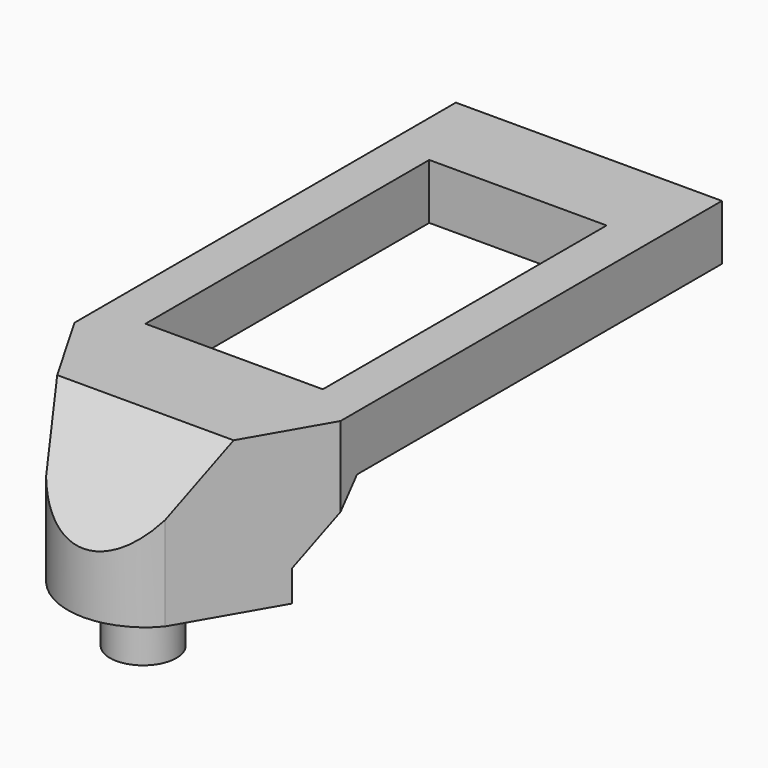
from build123d import *

# Parameters (mm, degrees)
F0_W     = 30.48
F0_H     = 54.61
F0_W_2   = 20.32
F0_H_2   = 40.64
F2_DEPTH = 17.526
F4_START = -25.4
F4_DEPTH = 40.641
F5_R     = 3.81
F6_DEPTH = 6.35


with BuildPart() as f2:
    # F0 (on Top) → F2 (new body)
    with BuildSketch(Plane.XY):
        with Locations((0, 13.335)):
            Rectangle(F0_W, F0_H)
        with Locations((0, 10.16)):
            Rectangle(F0_W_2, F0_H_2, mode=Mode.SUBTRACT)
        with BuildLine():
            Line((15.24, -13.97), (-15.24, -13.97))
            Line((-15.24, -13.97), (-6.8038069676, -28.5819149546))
            ThreePointArc((-6.8038069676, -28.5819149546), (0, -31.75), (6.8038069676, -28.5819149546))
            Line((6.8038069676, -28.5819149546), (15.24, -13.97))
        make_face()
    extrude(amount=-F2_DEPTH)

    # F3 (on Right) → F4 (intersect)
    with BuildSketch(Plane.YZ.offset(F4_START)):
        Polygon((40.7838374376, 0), (0, 0), (-22.86, 0), (-31.9106747376, -10.7861741339), (-31.9106747376, -17.527366057), (-18.003549273, -17.527366057), (-18.003549273, -13.97), (-11.6096100835, -6.35), (40.7838374376, -6.35), align=None)
    extrude(amount=F4_DEPTH, mode=Mode.INTERSECT)

    # F5 (on face) → F6 (join)
    with BuildSketch(Plane(origin=(0, 0, -17.526), x_dir=(1, 0, 0), z_dir=(0, 0, -1))):
        with Locations((0, 23.183679186)):
            Circle(F5_R)
    extrude(amount=F6_DEPTH)


solid = f2.part
